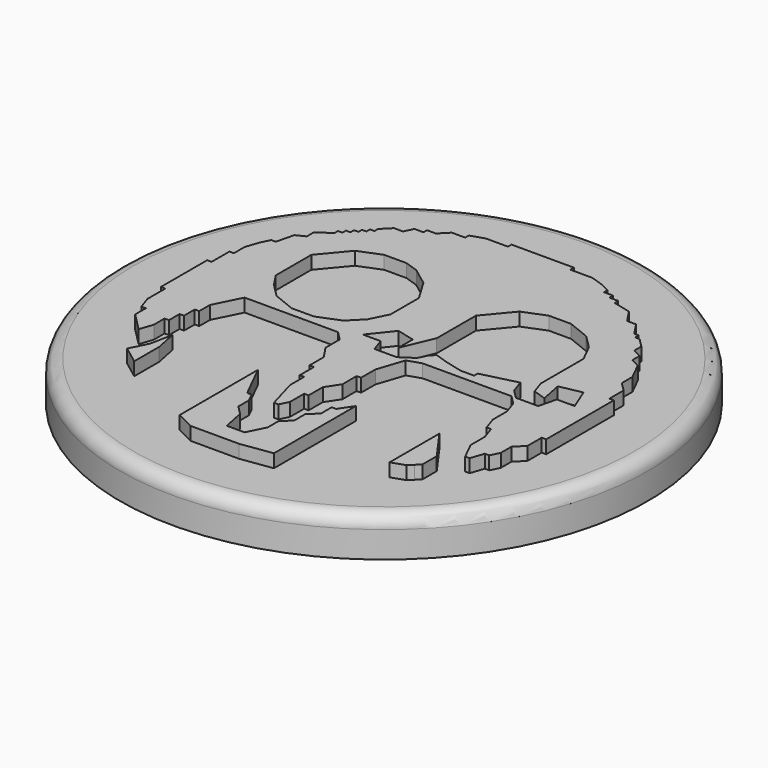
from build123d import *

# Parameters (mm, degrees)
F0_W     = 20
F0_H     = 3
F4_DEPTH = 1
F5_R     = 1


with BuildPart() as f1:
    # F0 (on Front) → F1 (revolve)
    with BuildSketch(Plane.XZ):
        with Locations((-10, 1.5)):
            Rectangle(F0_W, F0_H)
    revolve(axis=Axis((0, 0, 1.5), (0, 0, 1)))

    # F3 (on offset) → F4 (join)
    with BuildSketch(Plane.XY.offset(3)):
        Polygon((-0.685393, 14.623515), (-2.033708, 14.623515), (-2.033708, 14.286436), (-3.719101, 14.286436), (-4.730337, 13.949358), (-4.730337, 13.612279), (-5.741573, 13.612279), (-6.41573, 12.938122), (-7.089888, 12.938122), (-7.089888, 12.601043), (-7.764045, 12.601043), (-8.101124, 11.926886), (-8.775281, 11.926886), (-9.449438, 11.252728), (-9.449438, 10.91565), (-9.786517, 10.91565), (-9.786517, 10.578571), (-10.123596, 10.578571), (-10.123596, 10.241492), (-10.460674, 10.241492), (-10.460674, 9.904414), (-10.797753, 9.904414), (-10.797753, 9.567335), (-11.134831, 9.567335), (-11.134831, 9.230256), (-12.146067, 8.556099), (-12.146067, 7.881942), (-12.820225, 7.544863), (-13.157303, 6.196549), (-13.494382, 6.196549), (-13.831461, 5.522391), (-14.168539, 4.511155), (-14.168539, 3.499919), (-14.505618, 3.499919), (-14.505618, 1.814526), (-14.842697, 1.814526), (-14.842697, 0.80329), (-14.842697, -2.567496), (-14.505618, -2.567496), (-14.505618, -4.25289), (-14.168539, -5.264126), (-13.831461, -5.264126), (-13.831461, -6.275362), (-12.483146, -7.623676), (-12.146067, -6.61244), (-12.146067, -5.601204), (-11.808989, -5.601204), (-11.808989, -4.589968), (-11.47191, -4.589968), (-11.47191, -3.578732), (-11.134831, -3.578732), (-11.134831, -2.567496), (-10.123596, -0.545024), (-8.775281, -0.545024), (-8.438202, -0.545024), (-8.101124, -0.545024), (-7.764045, -0.545024), (-7.426966, -0.545024), (-7.089888, -0.545024), (-6.752809, -0.545024), (-6.41573, -0.545024), (-6.078652, -0.545024), (-5.741573, -0.545024), (-5.404494, -0.545024), (-5.067416, -0.545024), (-3.044944, -0.545024), (-2.370787, -1.219182), (-2.370787, -2.567496), (-1.696629, -3.578732), (-1.696629, -4.927047), (-1.359551, -4.927047), (-1.359551, -6.275362), (-1.022472, -6.275362), (-1.022472, -7.623676), (-0.348315, -9.983227), (-0.011236, -9.983227), (0.325843, -9.309069), (0.325843, -7.960755), (0.662921, -7.960755), (0.662921, -6.61244), (1.337079, -5.601204), (1.337079, -4.25289), (1.674157, -4.25289), (1.674157, -2.904575), (2.348315, -0.882103), (3.359551, -0.545024), (4.707865, -0.545024), (5.044944, -0.545024), (5.382022, -0.545024), (5.719101, -0.545024), (6.05618, -0.545024), (6.393258, -0.545024), (6.730337, -0.545024), (7.067416, -0.545024), (7.404494, -0.545024), (7.741573, -0.545024), (8.078652, -0.545024), (8.41573, -0.545024), (10.101124, -0.545024), (10.775281, -1.219182), (11.11236, -2.230418), (11.11236, -3.578732), (11.449438, -4.589968), (11.786517, -4.589968), (12.123596, -5.601204), (12.123596, -6.949519), (12.797753, -8.297833), (13.134831, -8.297833), (13.47191, -7.286598), (13.808989, -7.286598), (14.146067, -6.61244), (14.146067, -5.601204), (14.820225, -4.927047), (14.820225, -3.578732), (15.157303, -3.578732), (15.157303, -2.567496), (15.157303, -1.219182), (15.157303, -0.882103), (15.157303, -0.545024), (15.157303, -0.207946), (15.157303, 0.129133), (15.157303, 0.466211), (15.157303, 0.80329), (15.157303, 1.140369), (15.157303, 2.825762), (14.820225, 2.825762), (14.820225, 4.174077), (14.146067, 4.848234), (14.146067, 5.85947), (13.47191, 7.207784), (12.797753, 7.544863), (12.797753, 8.21902), (12.123596, 8.556099), (12.123596, 9.230256), (11.449438, 9.904414), (11.11236, 9.904414), (11.11236, 10.241492), (10.775281, 10.241492), (10.101124, 11.252728), (9.426966, 11.252728), (8.752809, 12.263964), (7.404494, 12.601043), (7.404494, 12.938122), (6.730337, 12.938122), (6.730337, 13.2752), (6.05618, 13.2752), (6.05618, 13.612279), (5.382022, 13.949358), (4.370787, 14.286436), (2.685393, 14.286436), (2.685393, 14.623515), (1.674157, 14.623515), (0.325843, 14.623515), (-0.011236, 14.623515), (-0.348315, 14.623515), align=None)
        Polygon((-8.775281, 8.21902), (-7.089888, 8.893178), (-5.404494, 8.893178), (-4.393258, 8.556099), (-3.044944, 7.544863), (-2.033708, 5.85947), (-2.033708, 3.162841), (-2.707865, 1.814526), (-3.719101, 0.80329), (-5.404494, 0.129133), (-7.089888, 0.129133), (-8.775281, 0.80329), (-9.786517, 1.814526), (-10.460674, 2.825762), (-10.460674, 6.196549), align=None, mode=Mode.SUBTRACT)
        Polygon((3.696629, 8.21902), (5.382022, 8.893178), (7.067416, 8.893178), (8.752809, 8.21902), (9.764045, 7.207784), (10.438202, 5.85947), (10.438202, 4.174077), (10.438202, 3.836998), (10.438202, 3.499919), (10.438202, 3.162841), (10.438202, 1.814526), (10.775281, 0.80329), (11.786517, 0.466211), (11.449438, 2.151605), (13.134831, 2.488683), (13.808989, 0.80329), (12.460674, 0.80329), (12.123596, -0.545024), (10.438202, -0.545024), (10.101124, -0.207946), (9.764045, 0.129133), (9.426966, 1.140369), (6.730337, 0.466211), (6.730337, 0.129133), (5.719101, 0.129133), (4.370787, 0.466211), (3.359551, 0.80329), (3.022472, 0.466211), (2.685393, -0.207946), (1.674157, -0.882103), (-0.011236, -0.882103), (-0.348315, 0.129133), (-1.696629, 0.129133), (-0.348315, 1.814526), (1, 1.477447), (1, 0.129133), (2.011236, 2.488683), (2.011236, 2.825762), (2.011236, 3.162841), (2.011236, 3.499919), (2.011236, 3.836998), (2.011236, 4.174077), (2.011236, 4.511155), (2.011236, 4.848234), (2.011236, 6.196549), align=None, mode=Mode.SUBTRACT)
        Polygon((-10.123596, -8.634912), (-10.460674, -6.949519), (-10.797753, -8.634912), (-11.47191, -9.983227), (-10.123596, -10.994463), (-10.123596, -9.646148), (-10.123596, -9.309069), (-10.123596, -8.971991), align=None)
        Polygon((11.449438, -9.309069), (9.764045, -6.949519), (9.764045, -8.297833), (9.764045, -8.634912), (9.764045, -8.971991), (9.764045, -9.309069), (9.764045, -11.66862), (10.775281, -11.331541), (11.11236, -10.994463), (11.449438, -10.657384), align=None)
        Polygon((-2.707865, -9.309069), (-3.719101, -7.286598), (-3.719101, -8.634912), (-3.719101, -8.971991), (-3.719101, -9.309069), (-3.719101, -9.646148), (-3.719101, -9.983227), (-3.719101, -10.320305), (-3.719101, -10.657384), (-3.719101, -10.994463), (-3.719101, -11.331541), (-3.719101, -11.66862), (-3.719101, -12.005699), (-3.719101, -12.342777), (-3.719101, -14.702328), (-2.370787, -15.376485), (-1.022472, -15.376485), (-0.685393, -15.376485), (-0.348315, -15.376485), (-0.011236, -15.376485), (0.325843, -15.376485), (0.662921, -15.376485), (1, -15.376485), (1.337079, -15.376485), (3.696629, -15.039407), (3.696629, -13.691092), (3.696629, -13.354013), (3.696629, -13.016935), (3.696629, -12.679856), (3.696629, -12.342777), (3.696629, -12.005699), (3.696629, -11.66862), (3.696629, -11.331541), (3.696629, -10.994463), (3.696629, -10.657384), (3.696629, -10.320305), (3.696629, -9.983227), (3.696629, -9.646148), (3.696629, -9.309069), (3.696629, -8.971991), (3.696629, -8.634912), (3.696629, -7.286598), (3.022472, -8.297833), (2.685393, -8.297833), (2.685393, -9.309069), (2.011236, -9.983227), (2.011236, -10.994463), (1.337079, -11.66862), (1.337079, -12.679856), (0.662921, -14.028171), (-0.685393, -14.028171), (-1.022472, -12.342777), (-1.696629, -11.66862), (-1.696629, -10.657384), (-2.033708, -9.983227), (-2.370787, -9.983227), align=None)
    extrude(amount=F4_DEPTH)

    # F5
    f5_edges = [f1.edges().sort_by_distance(p)[0] for p in [
        (20, 0, 3),
    ]]
    fillet(f5_edges, radius=F5_R)


solid = f1.part
